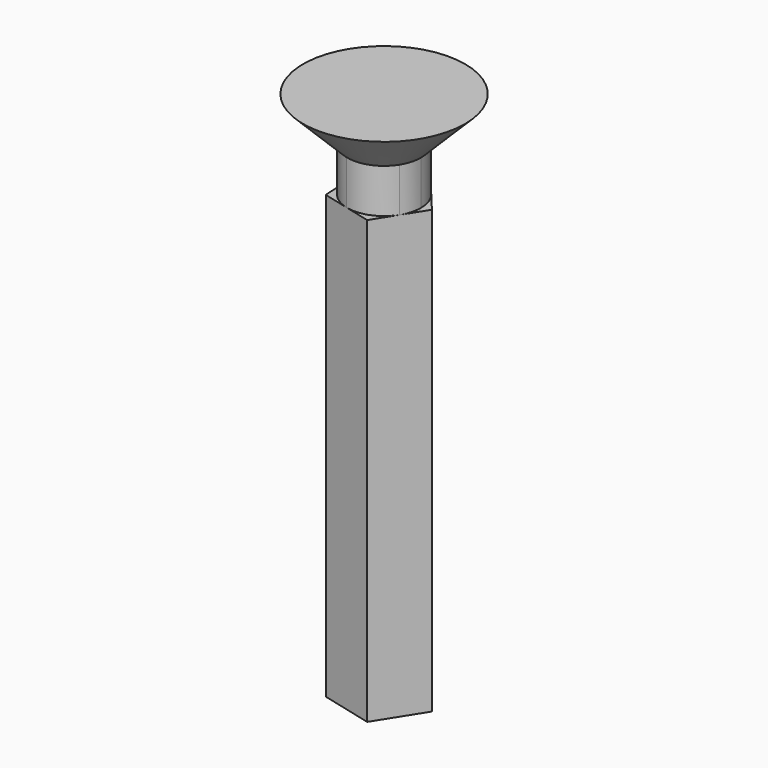
from build123d import *

# Parameters (mm, degrees)
F1_DEPTH  = 150
F3_DEPTH  = 15
F3_FACE_R = 12.5031074182
F4_DEPTH  = 15
F4_TAPER  = -45


with BuildPart() as f1:
    # F0 (on Top) → F1 (new body)
    with BuildSketch(Plane.XY):
        Polygon((15.4211589057, 1.0175080366), (3.7976925262, 14.9808209413), (-13.0740558457, 8.2411484845), (-11.8779034096, -9.8875110716), (5.7331078234, -14.3519663908), align=None)
    extrude(amount=F1_DEPTH)

    # F2 (on face) → F3 (join)
    with BuildSketch(Plane.XY.offset(150)):
        with BuildLine():
            ThreePointArc((10.5771332585, -6.6672293454), (12.0119675412, -3.4699179964), (12.5031074182, 0))
            ThreePointArc((12.5031074182, 0), (11.7574524907, 4.2532347737), (9.6094258021, 7.9991643854))
            ThreePointArc((9.6094258021, 7.9991643854), (3.07239751, 12.119738803), (-4.6381823272, 11.6109844463))
            ThreePointArc((-4.6381823272, 11.6109844463), (-10.5771335272, 6.667228919), (-12.4759796348, -0.8231811852))
            ThreePointArc((-12.4759796348, -0.8231811852), (-9.6094258213, -7.9991643624), (-3.0723980071, -12.119738677))
            ThreePointArc((-3.0723980071, -12.119738677), (4.6381814649, -11.6109847907), (10.5771332585, -6.6672293454))
        make_face()
    extrude(amount=F3_DEPTH)

    # F3_face (on face) → F4 (join)
    with BuildSketch(Plane.XY.offset(165)):
        Circle(F3_FACE_R)
    extrude(amount=F4_DEPTH, taper=F4_TAPER)


solid = f1.part
